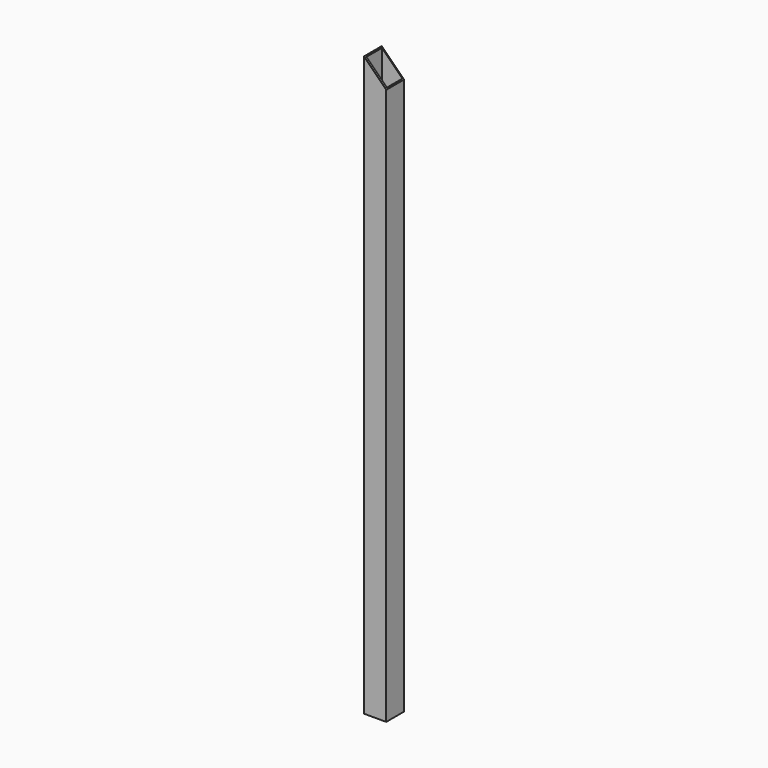
from build123d import *

# Parameters (mm, degrees)
F0_W     = 76.2
F0_H     = 76.2
F0_W_2   = 69.85
F0_H_2   = 66.400398
F1_DEPTH = 1981.2
F3_DEPTH = 101.6


with BuildPart() as f1:
    # F0 (on Top) → F1 (new body)
    with BuildSketch(Plane.XY):
        Rectangle(F0_W, F0_H)
        with Locations((0, 1.724801)):
            Rectangle(F0_W_2, F0_H_2, mode=Mode.SUBTRACT)
    extrude(amount=F1_DEPTH)

    # F2 (on face) → F3 (cut)
    with BuildSketch(Plane.XZ.offset(38.1)):
        Polygon((38.1, 1981.2), (-38.1, 1981.2), (38.1, 1905), align=None)
    extrude(amount=-F3_DEPTH, mode=Mode.SUBTRACT)


solid = f1.part
